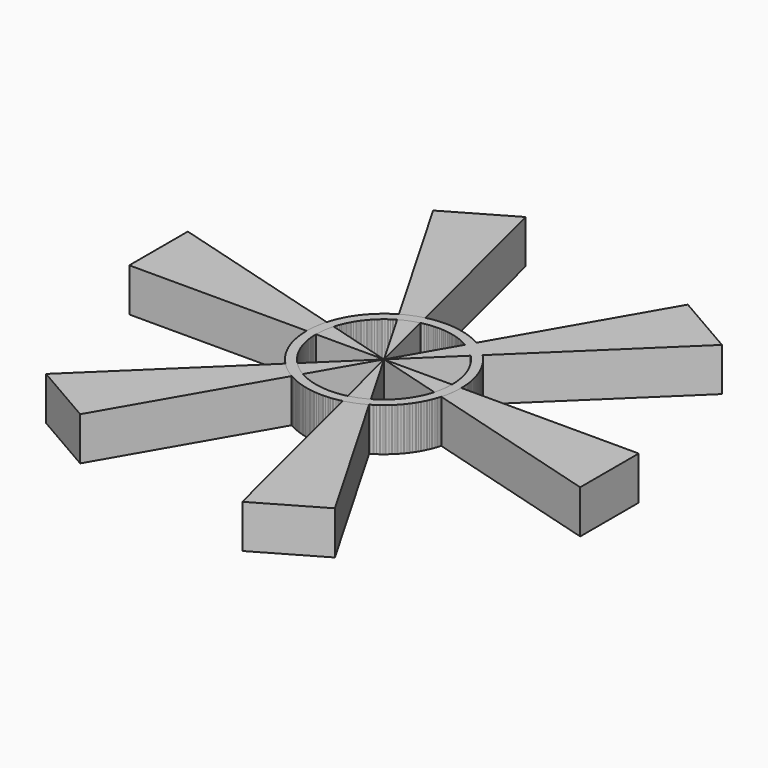
from build123d import *

# Parameters (mm, degrees)
F0_R     = 12.5
F0_R_2   = 11
F1_DEPTH = 7
F3_DEPTH = 7
F4_COUNT = 6


with BuildPart() as f1:
    # F0 (on Top) → F1 (new body)
    with BuildSketch(Plane.XY):
        Circle(F0_R)
        Circle(F0_R_2, mode=Mode.SUBTRACT)
    extrude(amount=F1_DEPTH)

    # F2 (on Top) → F3 (join)
    with BuildSketch(Plane.XY):
        Polygon((41.160703, 0), (0, 0), (41.160703, -11.823701), align=None)
    extrude(amount=F3_DEPTH)


with BuildPart() as f4_1:
    # F4: instance of F1
    add(f1.part.rotate(Axis((0, 0, 0), (0, 0, -1)), 1 * 360 / F4_COUNT))


with BuildPart() as f4_2:
    # F4: instance of F1
    add(f1.part.rotate(Axis((0, 0, 0), (0, 0, -1)), 2 * 360 / F4_COUNT))


with BuildPart() as f4_3:
    # F4: instance of F1
    add(f1.part.rotate(Axis((0, 0, 0), (0, 0, -1)), 3 * 360 / F4_COUNT))


with BuildPart() as f4_4:
    # F4: instance of F1
    add(f1.part.rotate(Axis((0, 0, 0), (0, 0, -1)), 4 * 360 / F4_COUNT))


with BuildPart() as f4_5:
    # F4: instance of F1
    add(f1.part.rotate(Axis((0, 0, 0), (0, 0, -1)), 5 * 360 / F4_COUNT))


solid = Compound([f1.part, f4_1.part, f4_2.part, f4_3.part, f4_4.part, f4_5.part])
